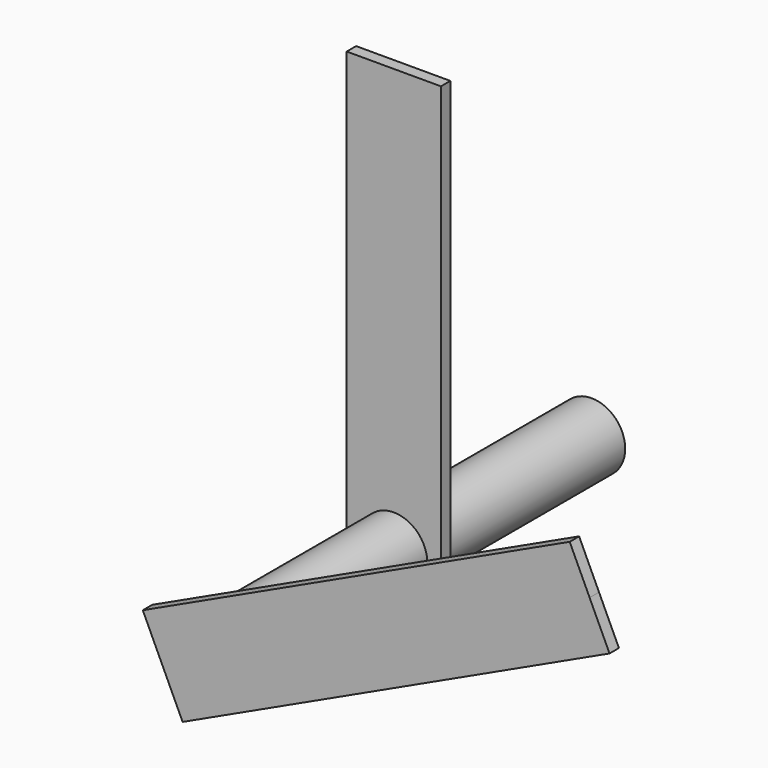
from build123d import *

# Parameters (mm, degrees)
F0_R     = 18.0975
F0_R_2   = 14.9225
F1_DEPTH = 127
F3_DEPTH = 6.35
F5_DEPTH = 6.35


with BuildPart() as f1:
    # F0 (on Front) → F1 (new body, symmetric)
    with BuildSketch(Plane.XZ):
        Circle(F0_R)
        Circle(F0_R_2, mode=Mode.SUBTRACT)
    extrude(amount=F1_DEPTH, both=True)

    # F2 (on Front) → F3 (join)
    with BuildSketch(Plane.XZ):
        Polygon((0, -25.4), (25.4, -25.4), (25.4, 228.6), (0, 228.6), (-25.4, 228.6), (-25.4, -25.4), align=None)
    extrude(amount=F3_DEPTH)

    # F4 (on face) → F5 (join)
    with BuildSketch(Plane.XZ.offset(127)):
        Polygon((217.916464, 73.590317), (207.18196, 96.610535), (196.447456, 119.630752), (-33.754722, 12.285714), (-23.020218, -10.734504), (-12.285714, -33.754722), align=None)
    extrude(amount=F5_DEPTH)


solid = f1.part
